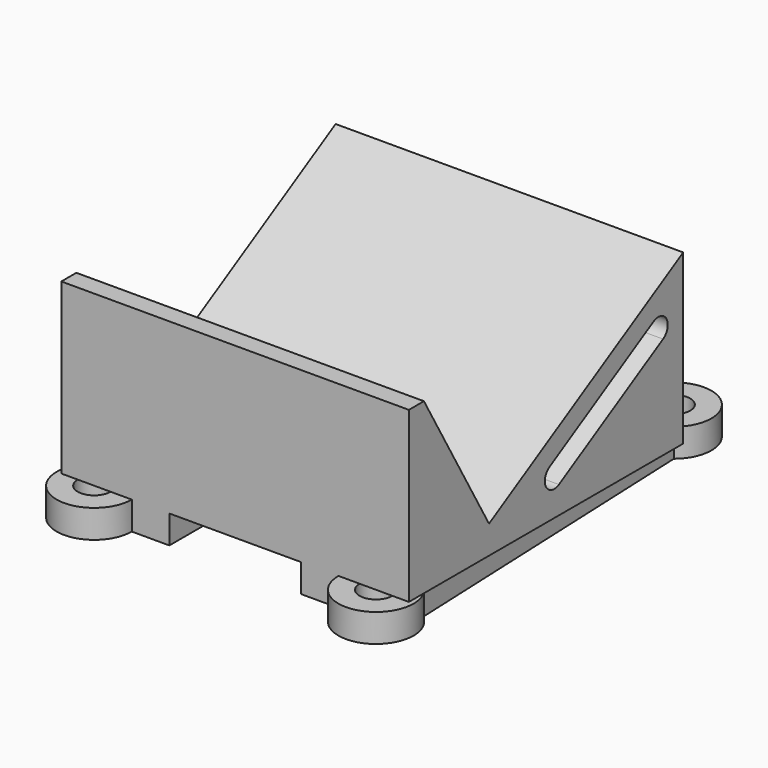
from build123d import *

# Parameters (mm, degrees)
F0_R     = 1.75
F1_DEPTH = 3
F3_DEPTH = 18.5


with BuildPart() as f1:
    # F0 (on Top) → F1 (new body)
    with BuildSketch(Plane.XY):
        with BuildLine():
            ThreePointArc((16, 17.627501), (15.232051, 24.355551), (9.5, 20.75))
            Line((9.5, 20.75), (8.24144, 6.486319))
            ThreePointArc((8.24144, 6.486319), (7.279001, 4.537417), (5.25305, 3.75))
            Line((5.25305, 3.75), (0, 3.75))
            Line((0, 3.75), (-5.25305, 3.75))
            ThreePointArc((-5.25305, 3.75), (-7.279001, 4.537417), (-8.24144, 6.486319))
            Line((-8.24144, 6.486319), (-9.5, 20.75))
            ThreePointArc((-9.5, 20.75), (-15.232051, 24.355551), (-16, 17.627501))
            Line((-16, 17.627501), (-17.5, -17.627501))
            ThreePointArc((-17.5, -17.627501), (-16.732051, -24.355551), (-11, -20.75))
            Line((-11, -20.75), (-7, -20.75))
            Line((-7, -20.75), (-7, -15.028129))
            ThreePointArc((-7, -15.028129), (-6.903908, -14.274924), (-6.621788, -13.56997))
            Line((-6.621788, -13.56997), (-1.310894, -4.02092))
            ThreePointArc((-1.310894, -4.02092), (0, -3.25), (1.310894, -4.02092))
            Line((1.310894, -4.02092), (6.621788, -13.56997))
            ThreePointArc((6.621788, -13.56997), (6.903908, -14.274924), (7, -15.028129))
            Line((7, -15.028129), (7, -20.75))
            Line((7, -20.75), (11, -20.75))
            ThreePointArc((11, -20.75), (16.732051, -24.355551), (17.5, -17.627501))
            Line((17.5, -17.627501), (16, 17.627501))
        make_face()
        with Locations((-15, -20.75)):
            Circle(F0_R, mode=Mode.SUBTRACT)
        with Locations((15, -20.75)):
            Circle(F0_R, mode=Mode.SUBTRACT)
        with Locations((-13.5, 20.75)):
            Circle(F0_R, mode=Mode.SUBTRACT)
        with Locations((13.5, 20.75)):
            Circle(F0_R, mode=Mode.SUBTRACT)
    extrude(amount=F1_DEPTH)

    # F2 (on Right) → F3 (join, symmetric)
    with BuildSketch(Plane.YZ):
        Polygon((-20.75, 21), (-20.75, 3), (15.75, 3), (15.75, 20.918584), (-10.089746, 6), (-18.75, 21), align=None)
        with BuildLine():
            Line((-2.036543, 8.051443), (11.819864, 16.051443))
            ThreePointArc((11.819864, 16.051443), (13.527395, 15.593911), (13.069864, 13.886379))
            Line((13.069864, 13.886379), (-0.786543, 5.886379))
            ThreePointArc((-0.786543, 5.886379), (-2.494074, 6.343911), (-2.036543, 8.051443))
        make_face(mode=Mode.SUBTRACT)
    extrude(amount=F3_DEPTH, both=True)


solid = f1.part
